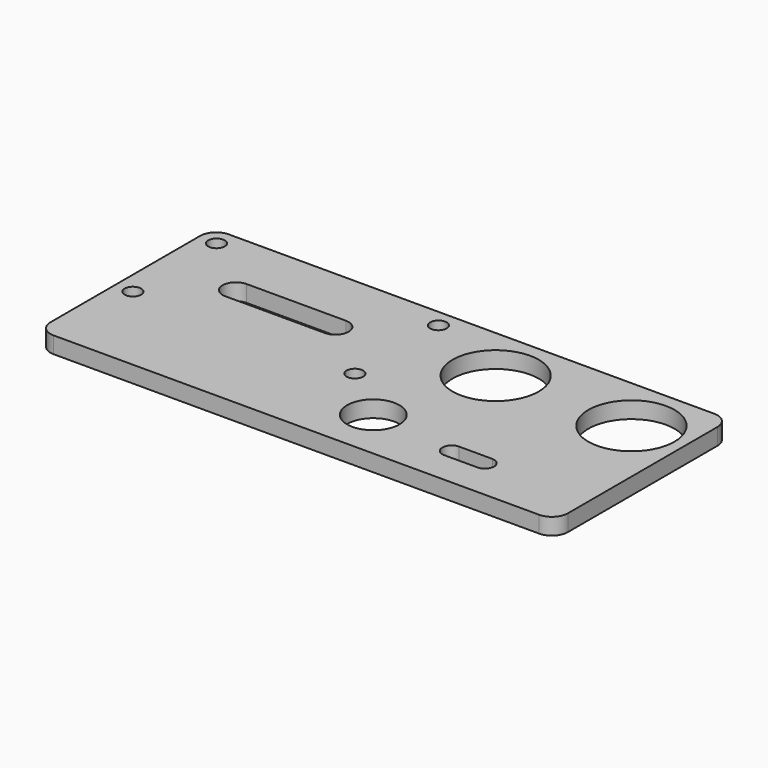
from build123d import *

# Parameters (mm, degrees)
F0_W     = 99.06
F0_H     = 41.91
F0_R     = 1.5875
F0_R_2   = 5
F0_R_3   = 8.25
F1_DEPTH = 3.175
F2_R     = 3.048


with BuildPart() as f1:
    # F0 (on Top) → F1 (new body)
    with BuildSketch(Plane.XY):
        with Locations((0.306267, 0.941642)):
            Rectangle(F0_W, F0_H)
        with Locations((-45.794733, -1.532358)):
            Circle(F0_R, mode=Mode.SUBTRACT)
        with Locations((-3.294733, -1.532358)):
            Circle(F0_R, mode=Mode.SUBTRACT)
        with Locations((7.188475, -10.223633)):
            Circle(F0_R_2, mode=Mode.SUBTRACT)
        with BuildLine():
            Line((29.992723, -13.807061), (23.642723, -13.807061))
            ThreePointArc((23.642723, -13.807061), (21.864723, -12.029061), (23.642723, -10.251061))
            Line((23.642723, -10.251061), (29.992723, -10.251061))
            ThreePointArc((29.992723, -10.251061), (31.770723, -12.029061), (29.992723, -13.807061))
        make_face(mode=Mode.SUBTRACT)
        with BuildLine():
            Line((-15.019733, 5.927642), (-34.069733, 5.927642))
            ThreePointArc((-34.069733, 5.927642), (-36.609733, 8.467642), (-34.069733, 11.007642))
            Line((-34.069733, 11.007642), (-15.019733, 11.007642))
            ThreePointArc((-15.019733, 11.007642), (-12.479733, 8.467642), (-15.019733, 5.927642))
        make_face(mode=Mode.SUBTRACT)
        with Locations((-45.794733, 18.467642)):
            Circle(F0_R, mode=Mode.SUBTRACT)
        with Locations((-3.294733, 18.467642)):
            Circle(F0_R, mode=Mode.SUBTRACT)
        with Locations((13.554267, 11.106642)):
            Circle(F0_R_3, mode=Mode.SUBTRACT)
        with Locations((39.554267, 11.106642)):
            Circle(F0_R_3, mode=Mode.SUBTRACT)
    extrude(amount=F1_DEPTH)

    # F2
    f2_edges = [f1.edges().sort_by_distance(p)[0] for p in [
        (49.836267, 21.896642, 1.5875),
        (49.836267, -20.013358, 1.5875),
        (-49.223733, -20.013358, 1.5875),
        (-49.223733, 21.896642, 1.5875),
    ]]
    fillet(f2_edges, radius=F2_R)


solid = f1.part
